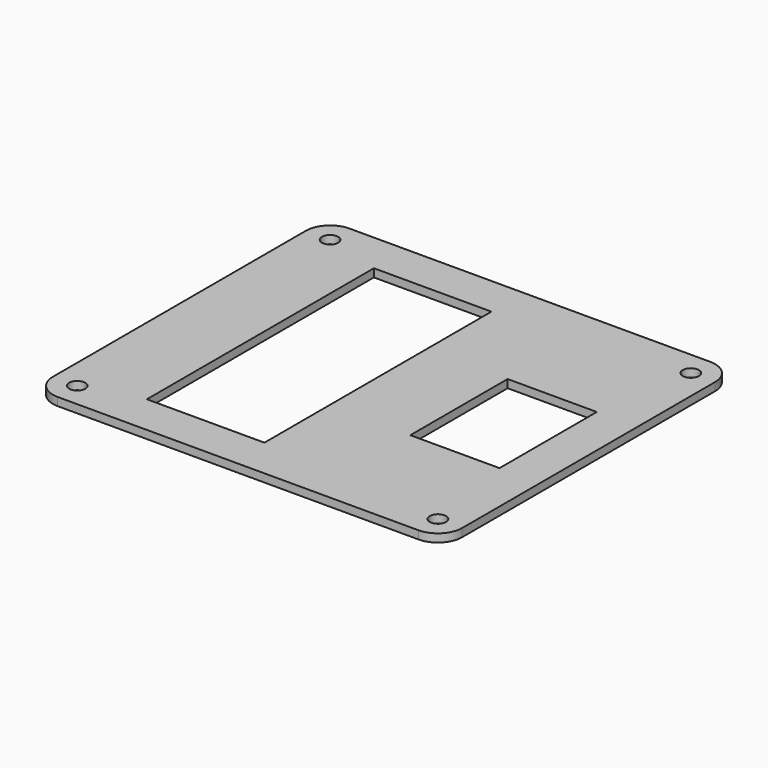
from build123d import *

# Parameters (mm, degrees)
F0_R     = 2
F0_W     = 29
F0_H     = 70
F0_W_2   = 22
F0_H_2   = 30
F1_DEPTH = 2


with BuildPart() as f1:
    # F0 (on Top) → F1 (new body)
    with BuildSketch(Plane.XY):
        with BuildLine():
            Line((-95, 0), (-6, 0))
            ThreePointArc((-6, 0), (-1.757359, 1.757359), (0, 6))
            Line((0, 6), (0, 84))
            ThreePointArc((0, 84), (-1.757359, 88.242641), (-6, 90))
            Line((-6, 90), (-95, 90))
            ThreePointArc((-95, 90), (-99.242641, 88.242641), (-101, 84))
            Line((-101, 84), (-101, 6))
            ThreePointArc((-101, 6), (-99.242641, 1.757359), (-95, 0))
        make_face()
        with Locations((-95, 6)):
            Circle(F0_R, mode=Mode.SUBTRACT)
        with Locations((-6, 6)):
            Circle(F0_R, mode=Mode.SUBTRACT)
        with Locations((-66.5, 45)):
            Rectangle(F0_W, F0_H, mode=Mode.SUBTRACT)
        with Locations((-95, 84)):
            Circle(F0_R, mode=Mode.SUBTRACT)
        with Locations((-21, 45)):
            Rectangle(F0_W_2, F0_H_2, mode=Mode.SUBTRACT)
        with Locations((-6, 84)):
            Circle(F0_R, mode=Mode.SUBTRACT)
    extrude(amount=F1_DEPTH)


solid = f1.part
